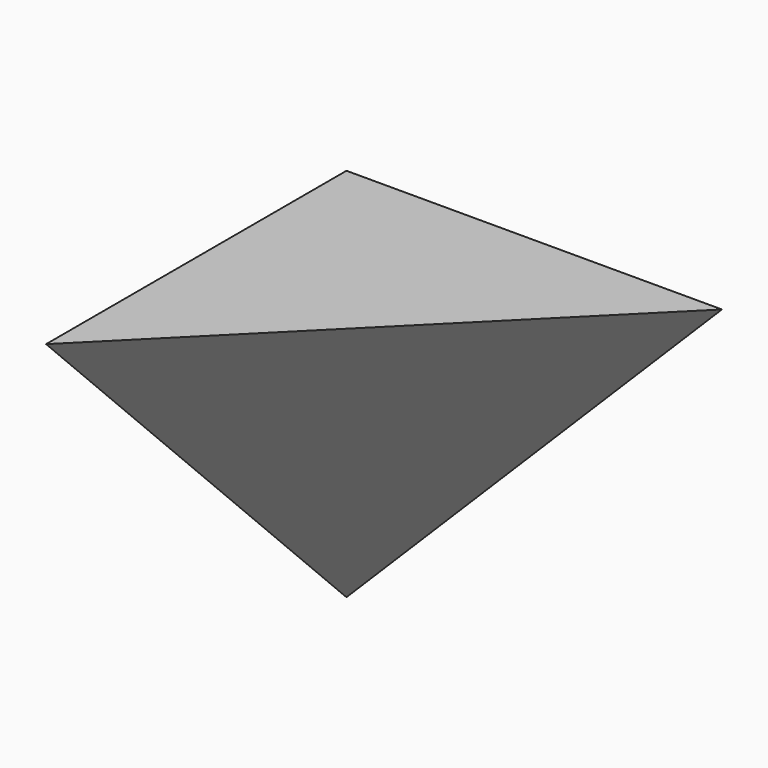
from build123d import *


with BuildPart() as f4:
    # F3 (on 3pt) → F4 section 0
    with BuildSketch(Plane(origin=(100, -100, -100), x_dir=(0.8164965809, 0.4082482905, 0.4082482905), z_dir=(0.5773502692, -0.5773502692, -0.5773502692)), mode=Mode.PRIVATE) as f4_s0:
        Polygon((-122.4744871392, -212.132034356), (244.9489742783, 0), (-122.4744871392, 212.132034356), align=None)
    loft([f4_s0.sketch, Vertex(0, 0, 0)])


solid = f4.part
